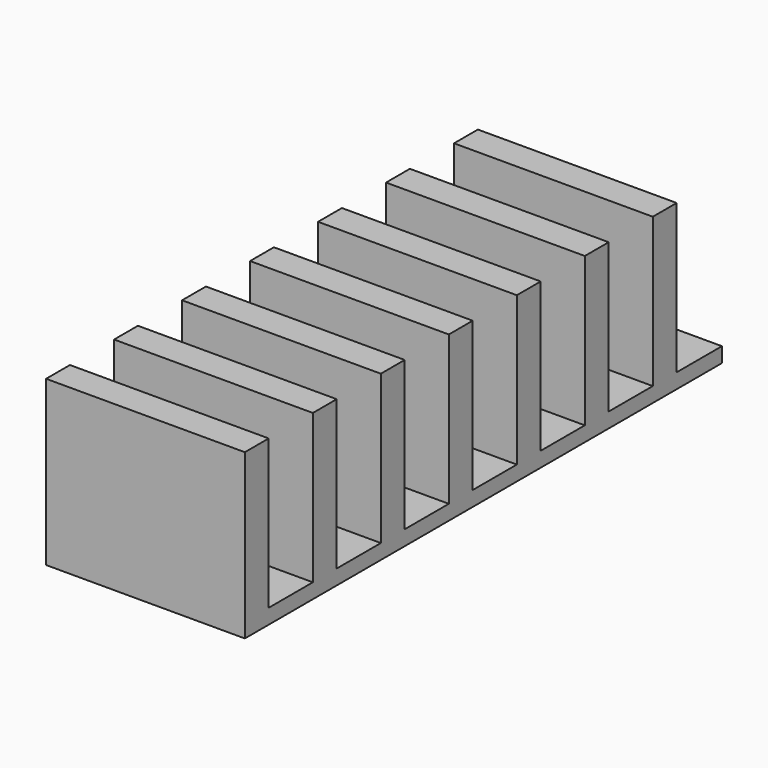
from build123d import *

# Parameters (mm, degrees)
F0_W     = 50.8
F0_H     = 152.4
F1_DEPTH = 3.81
F2_W     = 50.8
F2_H     = 7.62
F3_DEPTH = 38.1
F4_R     = 4.120653
F5_DEPTH = 25.4


with BuildPart() as f1:
    # F0 (on Top) → F1 (new body)
    with BuildSketch(Plane.XY):
        with Locations((25.4, 76.2)):
            Rectangle(F0_W, F0_H)
    extrude(amount=F1_DEPTH)

    # F2 (on face) → F3 (join)
    with BuildSketch(Plane.XY.offset(3.81)):
        with Locations((25.4, 134.13)):
            Rectangle(F2_W, F2_H)
        with Locations((25.4, 112.41)):
            Rectangle(F2_W, F2_H)
        with Locations((25.4, 90.69)):
            Rectangle(F2_W, F2_H)
        with Locations((25.4, 68.97)):
            Rectangle(F2_W, F2_H)
        with Locations((25.4, 47.25)):
            Rectangle(F2_W, F2_H)
        with Locations((25.4, 3.81)):
            Rectangle(F2_W, F2_H)
        with Locations((25.4, 25.53)):
            Rectangle(F2_W, F2_H)
    extrude(amount=F3_DEPTH)

    # F4 (on face) → F5 (cut)
    with BuildSketch(Plane.XY.offset(3.81)):
        with Locations((25.4, 144.709066)):
            Circle(F4_R)
    extrude(amount=-F5_DEPTH, mode=Mode.SUBTRACT)


solid = f1.part
